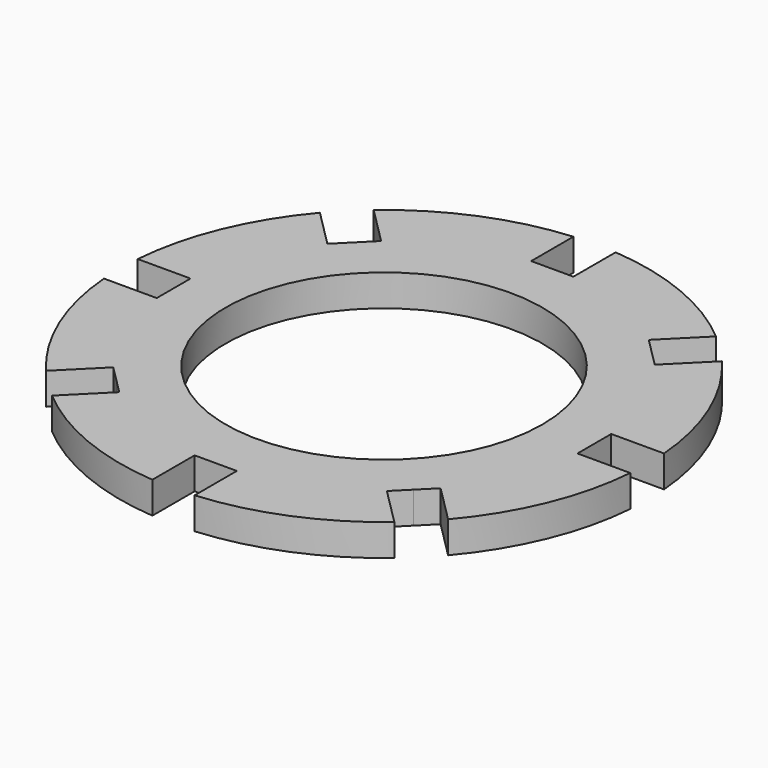
from build123d import *

# Parameters (mm, degrees)
F0_R     = 15
F1_DEPTH = 3


with BuildPart() as f1:
    # F0 (on Top) → F1 (new body)
    with BuildSketch(Plane.XY):
        with BuildLine():
            Line((19.919872, 2), (24.919872, 2))
            ThreePointArc((24.919872, 2), (23.096988, 9.567086), (19.035224, 16.206797))
            Line((19.035224, 16.206797), (15.49969, 12.671263))
            Line((15.49969, 12.671263), (14.085476, 14.085476))
            Line((14.085476, 14.085476), (12.671263, 15.49969))
            Line((12.671263, 15.49969), (16.206797, 19.035224))
            ThreePointArc((16.206797, 19.035224), (9.567086, 23.096988), (2, 24.919872))
            Line((2, 24.919872), (2, 19.919872))
            Line((2, 19.919872), (0, 19.919872))
            Line((0, 19.919872), (-2, 19.919872))
            Line((-2, 19.919872), (-2, 24.919872))
            ThreePointArc((-2, 24.919872), (-9.567086, 23.096988), (-16.206797, 19.035224))
            Line((-16.206797, 19.035224), (-12.671263, 15.49969))
            Line((-12.671263, 15.49969), (-14.085476, 14.085476))
            Line((-14.085476, 14.085476), (-15.49969, 12.671263))
            Line((-15.49969, 12.671263), (-19.035224, 16.206797))
            ThreePointArc((-19.035224, 16.206797), (-23.096988, 9.567086), (-24.919872, 2))
            Line((-24.919872, 2), (-19.919872, 2))
            Line((-19.919872, 2), (-19.919872, 0))
            Line((-19.919872, 0), (-19.919872, -2))
            Line((-19.919872, -2), (-24.919872, -2))
            ThreePointArc((-24.919872, -2), (-23.096988, -9.567086), (-19.035224, -16.206797))
            Line((-19.035224, -16.206797), (-15.49969, -12.671263))
            Line((-15.49969, -12.671263), (-14.085476, -14.085476))
            Line((-14.085476, -14.085476), (-12.671263, -15.49969))
            Line((-12.671263, -15.49969), (-16.206797, -19.035224))
            ThreePointArc((-16.206797, -19.035224), (-9.567086, -23.096988), (-2, -24.919872))
            Line((-2, -24.919872), (-2, -19.919872))
            Line((-2, -19.919872), (0, -19.919872))
            Line((0, -19.919872), (2, -19.919872))
            Line((2, -19.919872), (2, -24.919872))
            ThreePointArc((2, -24.919872), (9.567086, -23.096988), (16.206797, -19.035224))
            Line((16.206797, -19.035224), (12.671263, -15.49969))
            Line((12.671263, -15.49969), (14.085476, -14.085476))
            Line((14.085476, -14.085476), (15.49969, -12.671263))
            Line((15.49969, -12.671263), (19.035224, -16.206797))
            ThreePointArc((19.035224, -16.206797), (23.096988, -9.567086), (24.919872, -2))
            Line((24.919872, -2), (19.919872, -2))
            Line((19.919872, -2), (19.919872, 0))
            Line((19.919872, 0), (19.919872, 2))
        make_face()
        Circle(F0_R, mode=Mode.SUBTRACT)
    extrude(amount=F1_DEPTH)


solid = f1.part
